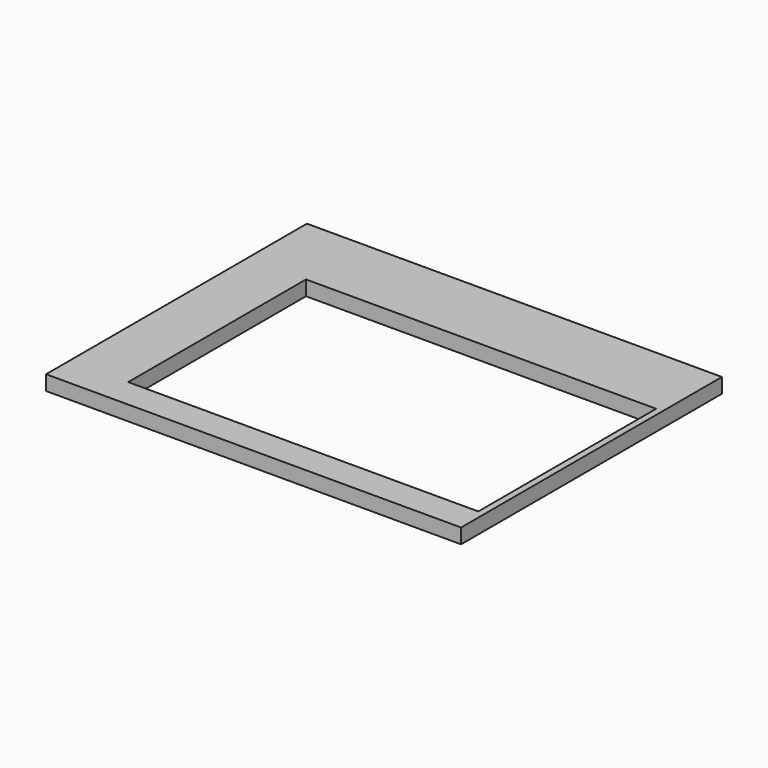
from build123d import *

# Parameters (mm, degrees)
F0_W     = 100.0125
F0_H     = 127
F0_H_2   = 50.8
F0_W_2   = 11.1125
F1_DEPTH = 25.4


with BuildPart() as f1:
    # F0 (on Top) → F1 (new body)
    with BuildSketch(Plane.XY):
        with Locations((-305.59375, 215.9)):
            Rectangle(F0_W, F0_H)
        with Locations((-205.58125, 215.9)):
            Rectangle(F0_W, F0_H)
        with Locations((-305.59375, 88.9)):
            Rectangle(F0_W, F0_H)
        with Locations((-105.56875, 215.9)):
            Rectangle(F0_W, F0_H)
        with Locations((-305.59375, -38.1)):
            Rectangle(F0_W, F0_H)
        with Locations((-5.55625, 215.9)):
            Rectangle(F0_W, F0_H)
        with Locations((-305.59375, -165.1)):
            Rectangle(F0_W, F0_H)
        with Locations((94.45625, 215.9)):
            Rectangle(F0_W, F0_H)
        with Locations((-305.59375, -254)):
            Rectangle(F0_W, F0_H_2)
        with Locations((194.46875, 215.9)):
            Rectangle(F0_W, F0_H)
        with Locations((-205.58125, -254)):
            Rectangle(F0_W, F0_H_2)
        with Locations((294.48125, 215.9)):
            Rectangle(F0_W, F0_H)
        with Locations((-105.56875, -254)):
            Rectangle(F0_W, F0_H_2)
        with Locations((350.04375, 215.9)):
            Rectangle(F0_W_2, F0_H)
        with Locations((-5.55625, -254)):
            Rectangle(F0_W, F0_H_2)
        with Locations((350.04375, 88.9)):
            Rectangle(F0_W_2, F0_H)
        with Locations((94.45625, -254)):
            Rectangle(F0_W, F0_H_2)
        with Locations((350.04375, -38.1)):
            Rectangle(F0_W_2, F0_H)
        with Locations((194.46875, -254)):
            Rectangle(F0_W, F0_H_2)
        with Locations((350.04375, -165.1)):
            Rectangle(F0_W_2, F0_H)
        with Locations((294.48125, -254)):
            Rectangle(F0_W, F0_H_2)
        with Locations((350.04375, -254)):
            Rectangle(F0_W_2, F0_H_2)
    extrude(amount=F1_DEPTH)


solid = f1.part
